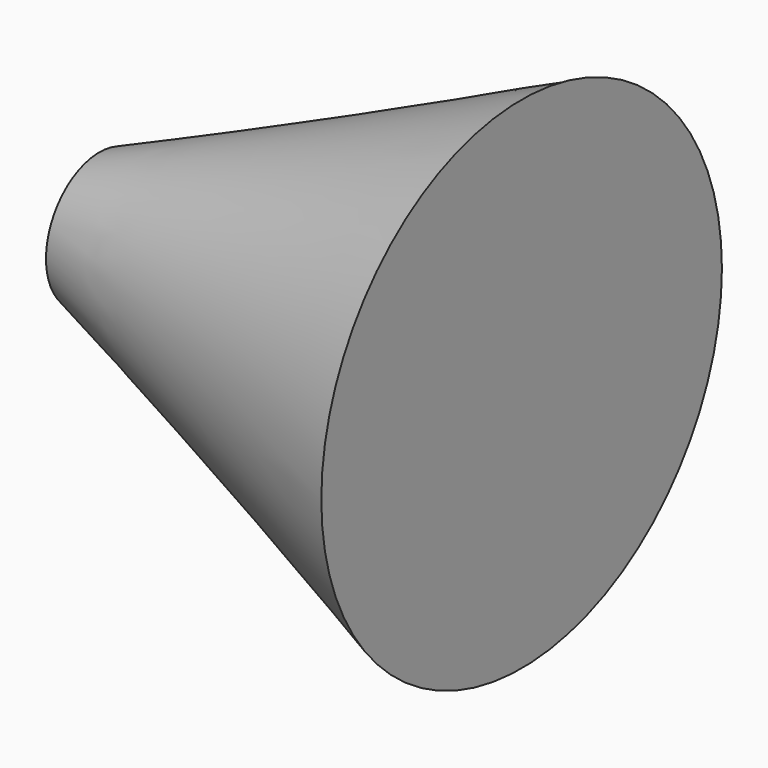
from build123d import *


with BuildPart() as f1:
    # F0 (on Top) → F1 (revolve)
    with BuildSketch(Plane.XY):
        with BuildLine():
            Line((-55.882357, 5.13631), (-55.882357, 1.243948))
            Line((-55.882357, 1.243948), (-31.251725, 1.243948))
            Line((-31.251725, 1.243948), (-31.251725, 15.848948))
            ThreePointArc((-31.251725, 15.848948), (-43.506371, 10.353137), (-55.882357, 5.13631))
        make_face()
    revolve(axis=Axis((-44.653777, 1.243948, 0), (-1, 0, 0)))


solid = f1.part
